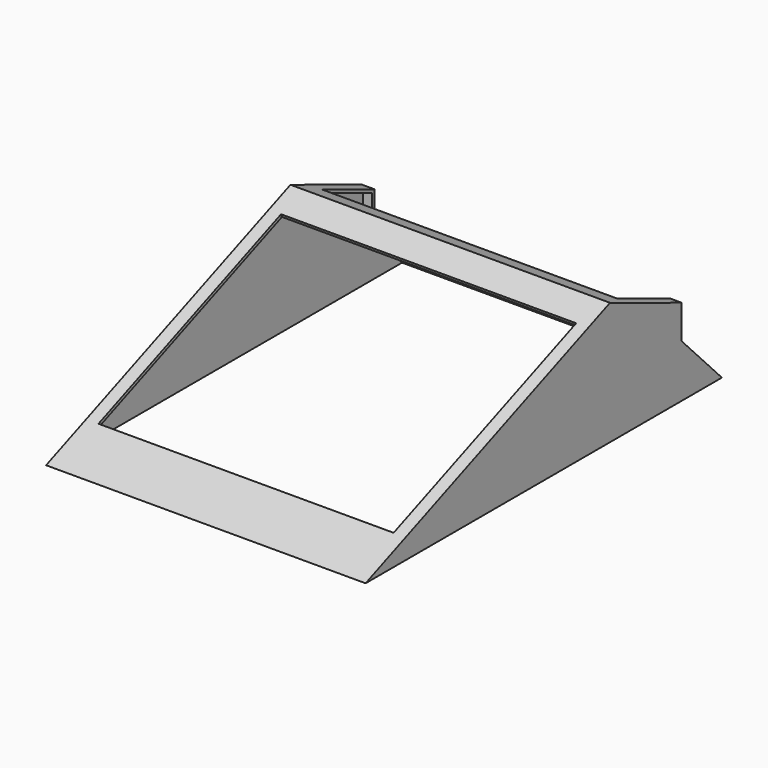
from build123d import *

# Parameters (mm, degrees)
F1_DEPTH = 330
F2_T     = -3.175
F3_W     = 304.8
F3_H     = 101.6
F4_DEPTH = 254
F5_W     = 304.8
F5_H     = 254
F6_DEPTH = 25.4


with BuildPart() as f1:
    # F0 (on Right) → F1 (new body)
    with BuildSketch(Plane.YZ):
        Polygon((-18.4111015737, 126.7885861181), (-333.886384964, 0), (126.113615036, 0), (74.243833744, 54.1712634957), (74.243833744, 89.1712634957), align=None)
    extrude(amount=F1_DEPTH)

    # F2
    f2_openings = [f1.faces().sort_by_distance(p)[0] for p in [
        (165, -103.886385, 0),
    ]]
    offset(amount=F2_T, openings=f2_openings, kind=Kind.INTERSECTION)

    # F3 (on Front) → F4 (cut)
    with BuildSketch(Plane.XZ):
        with Locations((165.1896406174, 66.1754549101)):
            Rectangle(F3_W, F3_H)
    extrude(amount=-F4_DEPTH, mode=Mode.SUBTRACT)

    # F5 (on face) → F6 (cut)
    with BuildSketch(Plane(origin=(0, -46.4302683335, 115.5277656205), x_dir=(1, 0, 0), z_dir=(0, -0.3729076062, 0.9278684806))):
        with Locations((165.1, -127)):
            Rectangle(F5_W, F5_H)
    extrude(amount=-F6_DEPTH, mode=Mode.SUBTRACT)


solid = f1.part
